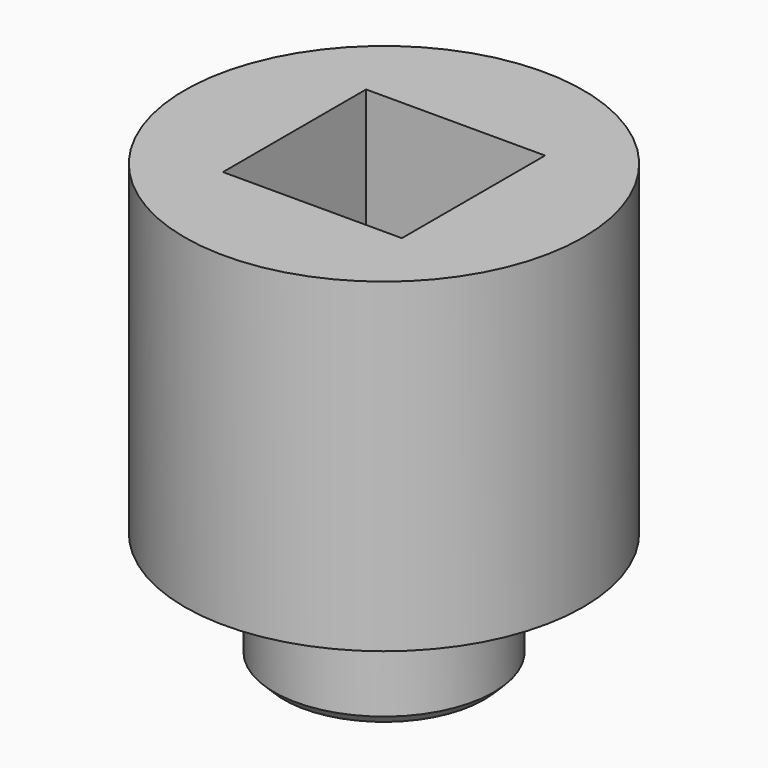
from build123d import *

# Parameters (mm, degrees)
F0_R     = 12.25
F1_DEPTH = 20
F2_W     = 11
F2_H     = 11
F3_DEPTH = 10
F4_R     = 1.9
F5_DEPTH = 40
F6_R     = 6.75
F6_R_2   = 1.9
F7_DEPTH = 7
F8_SIZE  = 0.6


with BuildPart() as f1:
    # F0 (on Top) → F1 (new body)
    with BuildSketch(Plane.XY):
        Circle(F0_R)
    extrude(amount=F1_DEPTH)

    # F2 (on face) → F3 (cut)
    with BuildSketch(Plane.XY.offset(20)):
        Rectangle(F2_W, F2_H)
    extrude(amount=-F3_DEPTH, mode=Mode.SUBTRACT)

    # F4 (on face) → F5 (cut)
    with BuildSketch(Plane.XY.offset(10)):
        Circle(F4_R)
    extrude(amount=-F5_DEPTH, mode=Mode.SUBTRACT)

    # F6 (on face) → F7 (join)
    with BuildSketch(Plane(origin=(0, 0, 0), x_dir=(1, 0, 0), z_dir=(0, 0, -1))):
        Circle(F6_R)
        Circle(F6_R_2, mode=Mode.SUBTRACT)
    extrude(amount=F7_DEPTH)

    # F8
    f8_edges = [f1.edges().sort_by_distance(p)[0] for p in [
        (-6.75, 0, -7),
    ]]
    chamfer(f8_edges, length=F8_SIZE)


solid = f1.part
